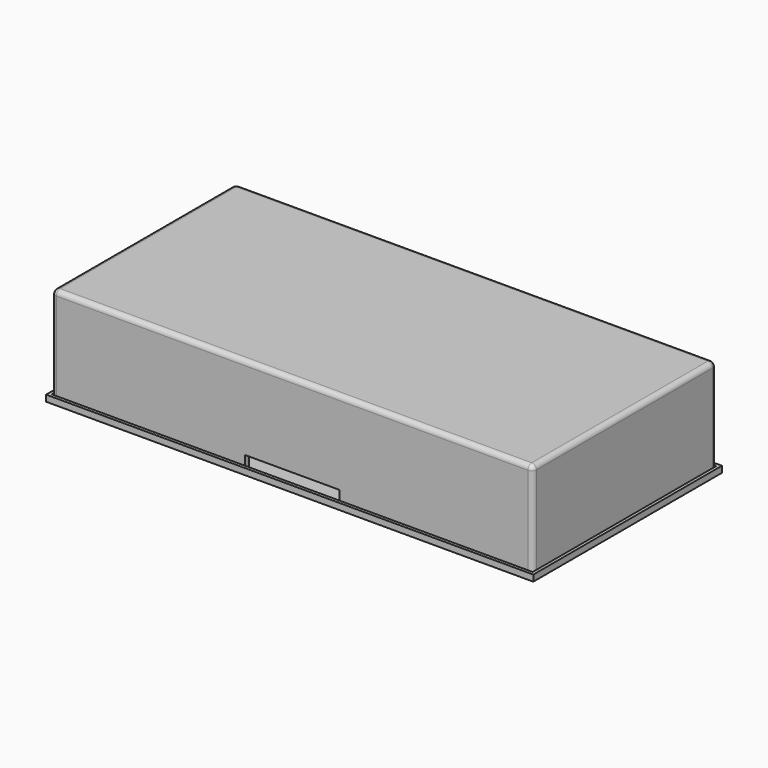
from build123d import *

# Parameters (mm, degrees)
SKETCH001_W     = 155
SKETCH001_H     = 75
PAD001_DEPTH    = 2
SKETCH002_W     = 153
SKETCH002_H     = 73
POCKET_DEPTH    = 1
SKETCH_W        = 150
SKETCH_H        = 70
PAD_DEPTH       = 30
THICKNESS_T     = 1.5
SKETCH003_W     = 30
SKETCH003_H     = 5
POCKET001_DEPTH = 1.5


with BuildPart() as pocket_hole:
    # Sketch001 → Pad001 (new body)
    with BuildSketch(Plane.XY):
        Rectangle(SKETCH001_W, SKETCH001_H)
    extrude(amount=PAD001_DEPTH)

    # Sketch002 → Pocket (cut)
    with BuildSketch(Plane.XY.offset(2)):
        Rectangle(SKETCH002_W, SKETCH002_H)
    extrude(amount=-POCKET_DEPTH, mode=Mode.SUBTRACT)


with BuildPart() as cover_hole:
    # Sketch → Pad (new body)
    with BuildSketch(Plane.XY):
        Rectangle(SKETCH_W, SKETCH_H)
    extrude(amount=PAD_DEPTH)

    # Thickness
    thickness_openings = [cover_hole.faces().sort_by_distance(p)[0] for p in [
        (0, 0, 0),
    ]]
    offset(amount=THICKNESS_T, openings=thickness_openings)

    # Sketch003 → Pocket001 (cut)
    with BuildSketch(Plane.XZ.offset(36.5)):
        with Locations((0, 2.5)):
            Rectangle(SKETCH003_W, SKETCH003_H)
    extrude(amount=-POCKET001_DEPTH, mode=Mode.SUBTRACT)


solid = Compound([pocket_hole.part, cover_hole.part])
